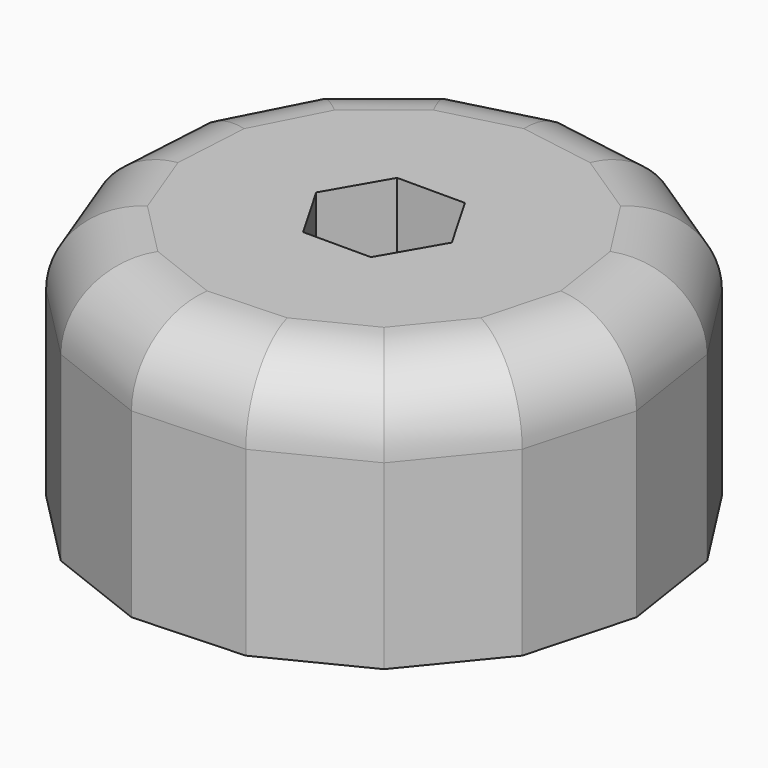
from build123d import *

# Parameters (mm, degrees)
F1_DEPTH = 25.4
F2_R     = 7.62
F4_DEPTH = 12.7
F5_R     = 3.81
F6_DEPTH = 25.4


with BuildPart() as f1:
    # F0 (on Top) → F1 (new body)
    with BuildSketch(Plane.XY):
        Polygon((6.572324, -25.121964), (16.22214, -20.276851), (23.067001, -11.925686), (25.923367, -1.512462), (24.297348, 9.162281), (18.470097, 18.252782), (9.449198, 24.187211), (-1.205553, 25.939452), (-11.651853, 23.206526), (-20.083442, 16.46098), (-25.042421, 6.869182), (-25.671338, -3.91036), (-21.861448, -14.013766), (-14.271514, -21.694064), (-4.213906, -25.623261), align=None)
    extrude(amount=F1_DEPTH)

    # F2
    f2_edges = [f1.edges().sort_by_distance(p)[0] for p in [
        (-18.066481, -17.853915, 25.4),
        (-9.24271, -23.658662, 25.4),
        (1.179209, -25.372613, 25.4),
        (11.397232, -22.699407, 25.4),
        (19.644571, -16.101268, 25.4),
        (24.495184, -6.719074, 25.4),
        (25.110358, 3.82491, 25.4),
        (21.383722, 13.707531, 25.4),
        (13.959647, 21.219996, 25.4),
        (4.121822, 25.063331, 25.4),
        (-6.428703, 24.572989, 25.4),
        (-15.867648, 19.833753, 25.4),
        (-22.562932, 11.665081, 25.4),
        (-25.35688, 1.479411, 25.4),
        (-23.766393, -8.962063, 25.4),
    ]]
    fillet(f2_edges, radius=F2_R)

    # F3 (on face) → F4 (cut)
    with BuildSketch(Plane.XY.offset(25.4)):
        Polygon((-3.319764, -5.75), (3.319764, -5.75), (6.639528, 0), (3.319764, 5.75), (-3.319764, 5.75), (-6.639528, 0), align=None)
    extrude(amount=-F4_DEPTH, mode=Mode.SUBTRACT)

    # F5 (on face) → F6 (cut)
    with BuildSketch(Plane.XY.offset(12.7)):
        Circle(F5_R)
    extrude(amount=-F6_DEPTH, mode=Mode.SUBTRACT)


solid = f1.part
